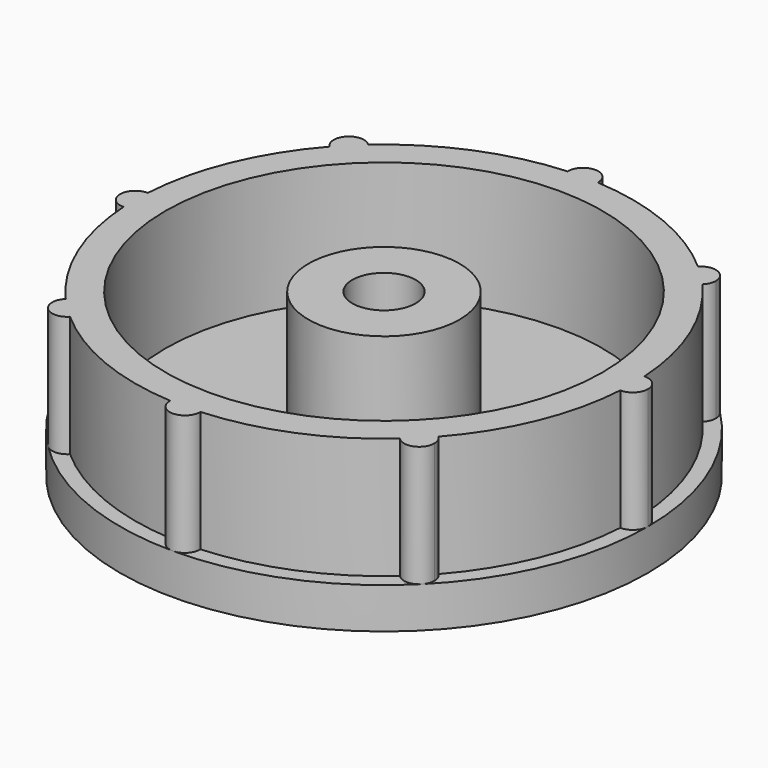
from build123d import *

# Parameters (mm, degrees)
F0_R     = 17.45
F1_DEPTH = 2.7
F2_R     = 14.45
F3_DEPTH = 8
F4_R     = 5
F4_R_2   = 2.1
F5_DEPTH = 8


with BuildPart() as f1:
    # F0 (on Top) → F1 (new body)
    with BuildSketch(Plane.XY):
        Circle(F0_R)
    extrude(amount=F1_DEPTH)

    # F2 (on face) → F3 (join)
    with BuildSketch(Plane.XY.offset(2.7)):
        with BuildLine():
            ThreePointArc((16.4196048632, -0.9995379611), (16.4423994599, -0.5), (16.45, 0))
            ThreePointArc((16.45, 0), (16.4423994599, 0.5), (16.4196048632, 0.9995379611))
            ThreePointArc((16.4196048632, 0.9995379611), (15.45, 0), (16.4196048632, -0.9995379611))
        make_face()
        with BuildLine():
            ThreePointArc((16.4196048632, 0.9995379611), (16.4423994599, 0.5), (16.45, 0))
            ThreePointArc((16.45, 0), (16.4423994599, -0.5), (16.4196048632, -0.9995379611))
            ThreePointArc((16.4196048632, -0.9995379611), (17.1462775536, -0.7177726439), (17.45, 0))
            ThreePointArc((17.45, 0), (17.1462775536, 0.7177726439), (16.4196048632, 0.9995379611))
        make_face()
        with BuildLine():
            ThreePointArc((16.4196048632, -0.9995379611), (15.45, 0), (16.4196048632, 0.9995379611))
            ThreePointArc((16.4196048632, 0.9995379611), (15.1978183098, 6.2951424624), (12.3171940135, 10.9036338728))
            ThreePointArc((12.3171940135, 10.9036338728), (10.9247997693, 10.9247997693), (10.9036338728, 12.3171940135))
            ThreePointArc((10.9036338728, 12.3171940135), (6.2951424624, 15.1978183098), (0.9995379611, 16.4196048632))
            ThreePointArc((0.9995379611, 16.4196048632), (0, 15.45), (-0.9995379611, 16.4196048632))
            ThreePointArc((-0.9995379611, 16.4196048632), (-6.2951424624, 15.1978183098), (-10.9036338728, 12.3171940135))
            ThreePointArc((-10.9036338728, 12.3171940135), (-10.7023172117, 12.0005034322), (-10.6319065505, 11.6319065505))
            ThreePointArc((-10.6319065505, 11.6319065505), (-11.2352249799, 10.7139502708), (-12.3171940135, 10.9036338728))
            ThreePointArc((-12.3171940135, 10.9036338728), (-15.1978183098, 6.2951424624), (-16.4196048632, 0.9995379611))
            ThreePointArc((-16.4196048632, 0.9995379611), (-15.7322273561, 0.6962775536), (-15.45, 0))
            ThreePointArc((-15.45, 0), (-15.7322273561, -0.6962775536), (-16.4196048632, -0.9995379611))
            ThreePointArc((-16.4196048632, -0.9995379611), (-15.1978183098, -6.2951424624), (-12.3171940135, -10.9036338728))
            ThreePointArc((-12.3171940135, -10.9036338728), (-11.2352249799, -10.7139502708), (-10.6319065505, -11.6319065505))
            ThreePointArc((-10.6319065505, -11.6319065505), (-10.7023172117, -12.0005034322), (-10.9036338728, -12.3171940135))
            ThreePointArc((-10.9036338728, -12.3171940135), (-6.2951424624, -15.1978183098), (-0.9995379611, -16.4196048632))
            ThreePointArc((-0.9995379611, -16.4196048632), (0, -15.45), (0.9995379611, -16.4196048632))
            ThreePointArc((0.9995379611, -16.4196048632), (6.2951424624, -15.1978183098), (10.9036338728, -12.3171940135))
            ThreePointArc((10.9036338728, -12.3171940135), (10.9247997693, -10.9247997693), (12.3171940135, -10.9036338728))
            ThreePointArc((12.3171940135, -10.9036338728), (15.1978183098, -6.2951424624), (16.4196048632, -0.9995379611))
        make_face()
        Circle(F2_R, mode=Mode.SUBTRACT)
        with BuildLine():
            ThreePointArc((10.9036338728, 12.3171940135), (10.9247997693, 10.9247997693), (12.3171940135, 10.9036338728))
            ThreePointArc((12.3171940135, 10.9036338728), (11.6319065505, 11.6319065505), (10.9036338728, 12.3171940135))
        make_face()
        with BuildLine():
            ThreePointArc((10.9036338728, 12.3171940135), (11.6319065505, 11.6319065505), (12.3171940135, 10.9036338728))
            ThreePointArc((12.3171940135, 10.9036338728), (12.5498628303, 11.2352249799), (12.6319065505, 11.6319065505))
            ThreePointArc((12.6319065505, 11.6319065505), (12.0005034322, 12.5614958893), (10.9036338728, 12.3171940135))
        make_face()
        with BuildLine():
            ThreePointArc((12.6319065505, -11.6319065505), (12.5498628303, -11.2352249799), (12.3171940135, -10.9036338728))
            ThreePointArc((12.3171940135, -10.9036338728), (11.6319065505, -11.6319065505), (10.9036338728, -12.3171940135))
            ThreePointArc((10.9036338728, -12.3171940135), (12.0005034322, -12.5614958893), (12.6319065505, -11.6319065505))
        make_face()
        with BuildLine():
            ThreePointArc((10.9036338728, -12.3171940135), (11.6319065505, -11.6319065505), (12.3171940135, -10.9036338728))
            ThreePointArc((12.3171940135, -10.9036338728), (10.9247997693, -10.9247997693), (10.9036338728, -12.3171940135))
        make_face()
        with BuildLine():
            ThreePointArc((-0.9995379611, 16.4196048632), (0, 15.45), (0.9995379611, 16.4196048632))
            ThreePointArc((0.9995379611, 16.4196048632), (0, 16.45), (-0.9995379611, 16.4196048632))
        make_face()
        with BuildLine():
            ThreePointArc((-0.9995379611, 16.4196048632), (0, 16.45), (0.9995379611, 16.4196048632))
            ThreePointArc((0.9995379611, 16.4196048632), (0.9998844836, 16.4348006758), (1, 16.45))
            ThreePointArc((1, 16.45), (-0.0151993242, 17.4498844836), (-0.9995379611, 16.4196048632))
        make_face()
        with BuildLine():
            ThreePointArc((1, -16.45), (0.9998844836, -16.4348006758), (0.9995379611, -16.4196048632))
            ThreePointArc((0.9995379611, -16.4196048632), (0, -16.45), (-0.9995379611, -16.4196048632))
            ThreePointArc((-0.9995379611, -16.4196048632), (-0.0151993242, -17.4498844836), (1, -16.45))
        make_face()
        with BuildLine():
            ThreePointArc((-0.9995379611, -16.4196048632), (0, -16.45), (0.9995379611, -16.4196048632))
            ThreePointArc((0.9995379611, -16.4196048632), (0, -15.45), (-0.9995379611, -16.4196048632))
        make_face()
        with BuildLine():
            ThreePointArc((-10.6319065505, 11.6319065505), (-10.7023172117, 12.0005034322), (-10.9036338728, 12.3171940135))
            ThreePointArc((-10.9036338728, 12.3171940135), (-11.6319065505, 11.6319065505), (-12.3171940135, 10.9036338728))
            ThreePointArc((-12.3171940135, 10.9036338728), (-11.2352249799, 10.7139502708), (-10.6319065505, 11.6319065505))
        make_face()
        with BuildLine():
            ThreePointArc((-12.3171940135, 10.9036338728), (-11.6319065505, 11.6319065505), (-10.9036338728, 12.3171940135))
            ThreePointArc((-10.9036338728, 12.3171940135), (-12.3390133317, 12.3390133317), (-12.3171940135, 10.9036338728))
        make_face()
        with BuildLine():
            ThreePointArc((-12.3171940135, -10.9036338728), (-12.3390133317, -12.3390133317), (-10.9036338728, -12.3171940135))
            ThreePointArc((-10.9036338728, -12.3171940135), (-11.6319065505, -11.6319065505), (-12.3171940135, -10.9036338728))
        make_face()
        with BuildLine():
            ThreePointArc((-12.3171940135, -10.9036338728), (-11.6319065505, -11.6319065505), (-10.9036338728, -12.3171940135))
            ThreePointArc((-10.9036338728, -12.3171940135), (-10.7023172117, -12.0005034322), (-10.6319065505, -11.6319065505))
            ThreePointArc((-10.6319065505, -11.6319065505), (-11.2352249799, -10.7139502708), (-12.3171940135, -10.9036338728))
        make_face()
        with BuildLine():
            ThreePointArc((-15.45, 0), (-15.7322273561, 0.6962775536), (-16.4196048632, 0.9995379611))
            ThreePointArc((-16.4196048632, 0.9995379611), (-16.45, 0), (-16.4196048632, -0.9995379611))
            ThreePointArc((-16.4196048632, -0.9995379611), (-15.7322273561, -0.6962775536), (-15.45, 0))
        make_face()
        with BuildLine():
            ThreePointArc((-16.4196048632, -0.9995379611), (-16.45, 0), (-16.4196048632, 0.9995379611))
            ThreePointArc((-16.4196048632, 0.9995379611), (-17.45, 0), (-16.4196048632, -0.9995379611))
        make_face()
    extrude(amount=F3_DEPTH)

    # F4 (on face) → F5 (join)
    with BuildSketch(Plane.XY.offset(2.7)):
        Circle(F4_R)
        Circle(F4_R_2, mode=Mode.SUBTRACT)
    extrude(amount=F5_DEPTH)


solid = f1.part
